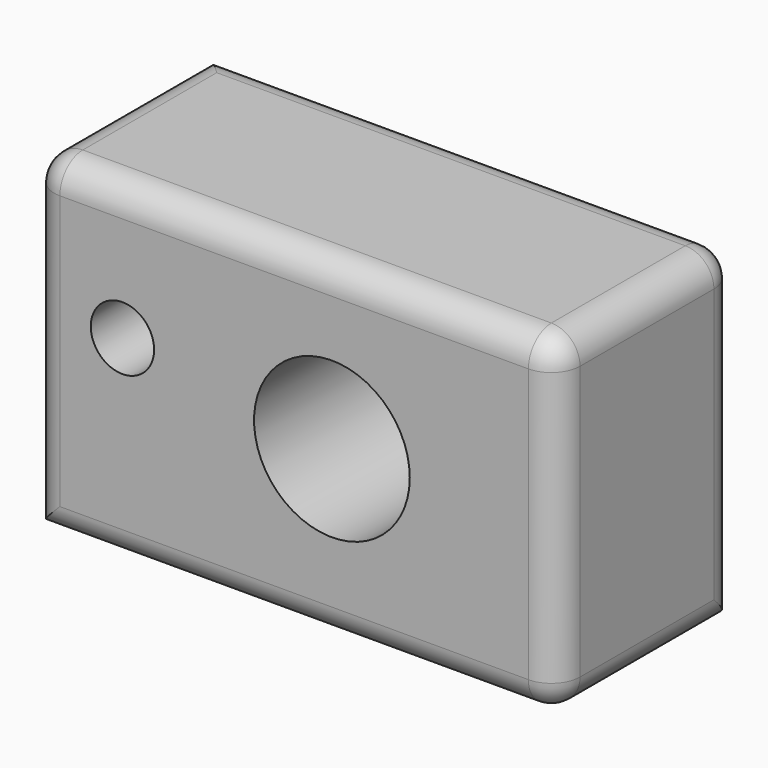
from build123d import *

# Parameters (mm, degrees)
F0_W     = 93.13333
F0_H     = 58.607232
F0_R     = 5.608659
F0_R_2   = 13.78695
F1_DEPTH = 39.794585
F2_R     = 5.08


with BuildPart() as f1:
    # F0 (on Front) → F1 (new body)
    with BuildSketch(Plane.XZ):
        with Locations((46.566665, 29.303616)):
            Rectangle(F0_W, F0_H)
        with Locations((16.160607, 34.94836)):
            Circle(F0_R, mode=Mode.SUBTRACT)
        with Locations((53.257737, 29.738348)):
            Circle(F0_R_2, mode=Mode.SUBTRACT)
    extrude(amount=F1_DEPTH)

    # F2
    f2_edges = [f1.edges().sort_by_distance(p)[0] for p in [
        (46.566665, -39.794585, 58.607232),
        (46.566665, 0, 58.607232),
        (0, -19.897292, 58.607232),
        (93.13333, -19.897292, 58.607232),
        (93.13333, -39.794585, 29.303616),
        (0, -39.794585, 29.303616),
        (46.566665, -39.794585, 0),
        (93.13333, 0, 29.303616),
        (93.13333, -19.897292, 0),
    ]]
    fillet(f2_edges, radius=F2_R)


solid = f1.part
